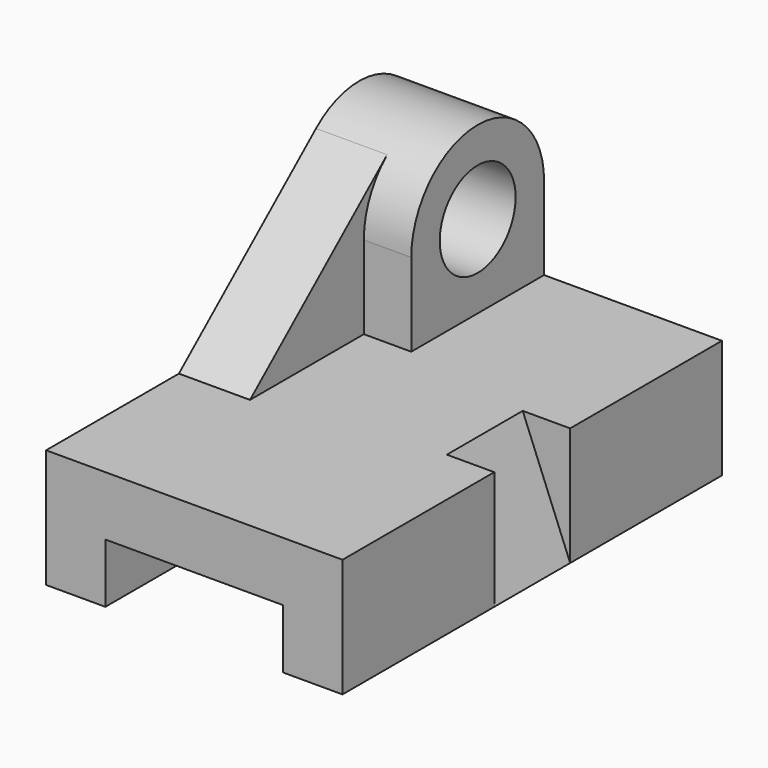
from build123d import *

# Parameters (mm, degrees)
F0_W      = 125
F0_H      = 200
F1_DEPTH  = 50
F2_W      = 50
F2_H      = 70
F3_DEPTH  = 35
F5_DEPTH  = 50
F6_R      = 20
F7_DEPTH  = 50.001
F9_DEPTH  = 30
F10_W     = 75
F10_H     = 25
F11_DEPTH = 200.001
F12_W     = 40
F12_H     = 50
F13_DEPTH = 20
F15_DEPTH = 40


with BuildPart() as f1:
    # F0 (on Top) → F1 (new body)
    with BuildSketch(Plane.XY):
        with Locations((-0.529949, 21.220052)):
            Rectangle(F0_W, F0_H)
    extrude(amount=F1_DEPTH)

    # F2 (on face) → F3 (join)
    with BuildSketch(Plane.XY.offset(50)):
        with Locations((-38.029949, 86.220052)):
            Rectangle(F2_W, F2_H)
    extrude(amount=F3_DEPTH)

    # F4 (on face) → F5 (join)
    with BuildSketch(Plane.YZ.offset(-13.029949)):
        with BuildLine():
            Line((51.220052, 85), (121.220052, 85))
            ThreePointArc((121.220052, 85), (86.220052, 120), (51.220052, 85))
        make_face()
    extrude(amount=-F5_DEPTH)

    # F6 (on face) → F7 (cut, through all)
    with BuildSketch(Plane.YZ.offset(-13.029949)):
        with Locations((86.220052, 85)):
            Circle(F6_R)
    extrude(amount=-F7_DEPTH, mode=Mode.SUBTRACT)

    # F8 (on face) → F9 (join)
    with BuildSketch(Plane(origin=(-63.029949, 0, 0), x_dir=(0, -1, 0), z_dir=(-1, 0, 0))):
        with BuildLine():
            Line((-51.220052, 50), (8.779948, 50))
            Line((8.779948, 50), (-63.512735, 111.634146))
            ThreePointArc((-63.512735, 111.634146), (-54.441474, 99.667036), (-51.220052, 85))
            Line((-51.220052, 85), (-51.220052, 50))
        make_face()
    extrude(amount=-F9_DEPTH)

    # F10 (on face) → F11 (cut, through all)
    with BuildSketch(Plane.XZ.offset(78.779948)):
        with Locations((-0.529949, 12.5)):
            Rectangle(F10_W, F10_H)
    extrude(amount=-F11_DEPTH, mode=Mode.SUBTRACT)

    # F12 (on face) → F13 (cut)
    with BuildSketch(Plane.YZ.offset(61.970051)):
        with Locations((21.220052, 25)):
            Rectangle(F12_W, F12_H)
    extrude(amount=-F13_DEPTH, mode=Mode.SUBTRACT)

    # F14 (on face) → F15 (join)
    with BuildSketch(Plane.XZ.offset(-41.220052)):
        Polygon((61.970051, 0), (41.970051, 50), (41.970051, 0), align=None)
    extrude(amount=F15_DEPTH)


solid = f1.part
